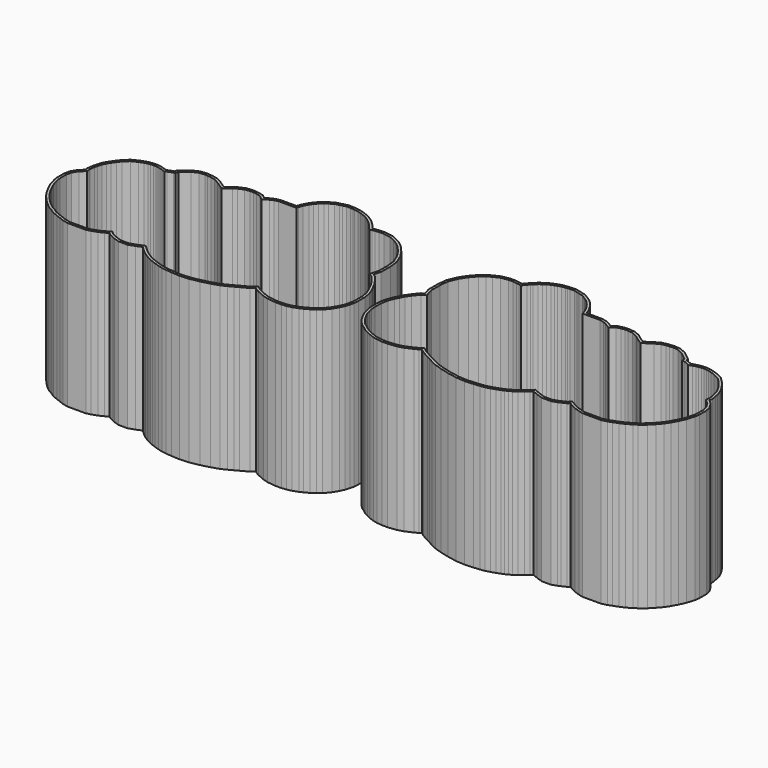
from build123d import *

# Parameters (mm, degrees)
F3_DEPTH = 63
F5_T     = -1
F6_DEPTH = 59.5


with BuildPart() as f3:
    # F2 (on Top) → F3 (new body)
    with BuildSketch(Plane.XY):
        Polygon((69.0605010803, 3.6826705883), (67.6828260233, 5.9539749338), (66.0824540443, 7.3943142983), (66.2329106813, 8.5964625363), (65.8953854477, 10.5734181663), (65.6489012115, 11.8058401083), (65.1670005925, 13.5582020605), (64.4271107308, 15.0379765623), (63.6501169809, 16.2879278911), (62.5766510595, 17.8255902563), (61.4375587699, 19.2408221008), (59.4506564546, 21.180420668), (56.9467977689, 22.4058318829), (55.2990258744, 23.0436531842), (53.7968854809, 23.4389558545), (52.8561404478, 23.5566961876), (51.8096187996, 23.6727037137), (50.6177216971, 23.5987876816), (49.633203077, 23.4390874072), (48.7148034668, 23.2536331782), (47.4375739069, 22.8887101866), (46.6260057978, 22.5887826544), (46.276989655, 22.824482255), (44.2177712486, 23.5932566966), (44.0831730028, 23.6145089746), (43.9996676928, 24.5043023693), (40.561429513, 27.2271249853), (38.0597094729, 28.3707698175), (35.6838438966, 28.6677548461), (34.344860206, 28.5087166686), (33.0077981643, 28.3832361009), (31.0679767777, 27.9667448549), (28.9886087479, 26.8500472907), (26.1127205234, 24.9323310331), (23.7915850137, 26.4260059875), (22.5144412296, 27.4374065355), (20.3085572556, 28.4458118594), (18.1390933706, 28.7169965174), (16.7126682681, 28.7169965174), (15.3178952446, 28.5003349475), (13.3258605109, 28.0152218152), (11.9263660662, 26.8834560462), (10.4085179875, 27.8008386306), (8.9245435181, 28.4792277813), (7.1902297432, 28.9031739953), (0.9375326445, 28.9031739953), (0.8916011974, 29.0530554214), (0.3177500639, 30.6316406253), (-0.6551379784, 32.4432253879), (-1.5513393392, 33.7337524028), (-2.6281023383, 34.9899786316), (-3.9544835194, 36.192008252), (-5.1557301211, 36.9711977396), (-6.9298443569, 38.0962466946), (-8.6824219763, 38.5038197492), (-9.6814525835, 38.795526054), (-11.0637086295, 39.1397361263), (-12.8564443498, 39.1397361263), (-13.9183476798, 39.0348557749), (-14.6148769812, 38.95127241), (-16.1705991872, 38.7628884176), (-17.5369718639, 38.3074308586), (-18.4534775542, 37.9721234945), (-19.5287458912, 37.5727399648), (-20.8058613534, 36.9148292566), (-21.9376113768, 36.1879083095), (-23.090324427, 35.3233706159), (-24.3209453258, 34.1647733351), (-24.8757697536, 33.5571096804), (-25.5991946494, 32.7359256672), (-26.4080916702, 31.7567359047), (-26.6869239968, 31.8148932664), (-27.9323968438, 31.9809580529), (-29.4292182463, 32.1623896058), (-31.4114159501, 32.1623896058), (-34.2744801012, 31.6852093106), (-36.7067622816, 30.5626193286), (-38.5939893418, 29.5121957471), (-40.5252545313, 27.899682525), (-42.6519555314, 25.4636437817), (-44.478675338, 22.6838553537), (-45.9723829893, 19.1192785507), (-46.3663603698, 15.504020358), (-46.3663603698, 11.0094111335), (-45.5519958228, 8.2100569243), (-46.6202990191, 7.6516238971), (-48.5962550534, 5.1416257589), (-49.8665937373, 3.3387818543), (-50.672824818, 1.7180130514), (-51.4915866557, 0.1459972546), (-52.4034504024, -2.2063133021), (-52.9091136955, -4.9714252485), (-52.9091136955, -8.1852866684), (-52.7562062752, -10.2341808853), (-52.4063591212, -11.7035601017), (-51.9044630058, -13.428813256), (-51.1098643199, -15.0871173727), (-49.8118185239, -17.286760762), (-47.8978205901, -19.5791063576), (-46.3763311707, -20.6061126552), (-44.8613569956, -21.7629994275), (-43.1199837254, -22.7033427827), (-41.7834604828, -23.3390055299), (-39.7582107601, -24.1006346446), (-37.9462882971, -24.5035987391), (-36.0079528533, -24.7148313205), (-33.7541400252, -24.7148313205), (-30.4242130258, -24.3406812764), (-28.2232351834, -23.6941381263), (-25.2712572168, -22.3917946936), (-23.9892246628, -21.6853679713), (-23.2445968222, -21.1410036713), (-21.7912996104, -22.2475732315), (-18.9271595902, -23.7882832068), (-17.4461594688, -24.5849592228), (-15.6875834408, -25.5309519499), (-13.6372963182, -26.5312071165), (-10.5926170552, -27.4977715563), (-7.2679370986, -28.3627097499), (-3.5088720566, -29.0717485595), (-0.0114314576, -29.3101217843), (3.3431636409, -29.093309759), (5.5394344238, -28.8866020108), (7.3059562011, -28.6345169724), (9.0822311808, -28.1670767899), (10.8870401828, -27.5785526963), (12.3840067255, -27.0163061496), (13.37700887, -26.6163453095), (14.515576999, -26.0540911561), (15.5441608602, -25.4841995682), (16.9345409514, -24.593275633), (18.5202831668, -23.3838126499), (19.753458586, -22.2492907425), (20.5593067832, -21.4763336184), (22.6371391489, -22.33456892), (25.1073168277, -23.2052119348), (28.6972070435, -23.2052119348), (30.7994506834, -22.5021103337), (31.73210151, -22.053057496), (33.4640465001, -21.2588558957), (34.2166801856, -20.5700043841), (35.601546001, -21.4009219383), (37.3574077685, -22.281690024), (39.4680457162, -22.996207083), (41.2115932057, -23.4502988182), (48.4223029252, -23.4502988182), (50.6090672947, -22.918382829), (52.1154152533, -22.3305378992), (53.9417225614, -21.6281129991), (55.9589893367, -20.7974746086), (57.8478911733, -19.5713428344), (59.2223790528, -18.7959929497), (61.4535788241, -16.9704640257), (63.22968567, -15.1247060727), (64.844932609, -13.2582057388), (66.0705373556, -11.4000295819), (67.2471143277, -9.2485774399), (68.4106538077, -6.7760518912), (69.3455987687, -3.6389613769), (69.5908863045, -1.9156398728), (69.5908863045, 1.4823988), align=None)
    extrude(amount=F3_DEPTH)

    # F5
    f5_openings = [f3.faces().sort_by_distance(p)[0] for p in [
        (5.894913, 2.45971, 63),
    ]]
    offset(amount=F5_T, openings=f5_openings, kind=Kind.INTERSECTION)

    # F1 (on Top) → F6 (cut)
    with BuildSketch(Plane.XY):
        Polygon((-23.7589030201, 26.576102978), (-24.2442461932, 25.6240844562), (-24.7505796552, 25.9683916906), (-26.3273519333, 26.6322949447), (-27.5289118996, 26.8829099231), (-28.5636582293, 27.0208775462), (-29.7311413718, 27.1623896058), (-30.9976007865, 27.1623896058), (-32.7894763894, 26.863741834), (-34.4400465414, 26.1019414426), (-35.7508573038, 25.3723490344), (-37.0179915376, 24.3143531065), (-38.6608860364, 22.4324925863), (-40.0460266042, 20.3246719411), (-41.0804289065, 17.8561792286), (-41.3663603698, 15.2323837611), (-41.3663603698, 11.7219213441), (-40.4341370797, 8.5174311673), (-39.6647828823, 7.1633647373), (-38.6575244171, 5.408438174), (-39.2026734707, 5.2991778714), (-41.7389136401, 4.5613562446), (-43.3544110434, 3.7168889545), (-44.5854614986, 2.1531222021), (-45.5597075525, 0.7704881202), (-46.2167994333, -0.5504656938), (-46.9294362318, -1.9187223137), (-47.5702393572, -3.5717850242), (-47.9091136955, -5.424847119), (-47.9091136955, -7.9989726259), (-47.7997641108, -9.4642104225), (-47.5709106, -10.4254090164), (-47.2180915667, -11.6382140796), (-46.6940448844, -12.7318841121), (-45.7127052521, -14.3948433401), (-44.5135793044, -15.8310053318), (-43.4578768902, -16.5436051133), (-42.1394547666, -17.5503979288), (-40.8568634275, -18.2429985698), (-39.8262294735, -18.7331775578), (-38.3284022685, -19.2964605916), (-37.1302421745, -19.5629264627), (-35.7363162565, -19.7148313205), (-34.0341585917, -19.7148313205), (-31.4154347714, -19.4205919474), (-29.9441817619, -18.988407426), (-27.4911786956, -17.9062000146), (-26.6821085673, -17.4603854703), (-25.6541709012, -16.708905956), (-24.8518540347, -16.0390025747), (-24.1278540821, -15.4960032425), (-23.3387250184, -14.6461724325), (-23.0041788543, -14.8657410276), (-22.5821964846, -15.1748001319), (-21.6527083444, -16.024618459), (-20.5107791469, -16.9381611055), (-19.0757068372, -18.0308538608), (-16.5584713949, -19.3849530769), (-15.0774712735, -20.1816290928), (-13.4061822444, -21.0806674291), (-11.7747129414, -21.8765977071), (-9.2057600976, -22.6921379502), (-6.1738480443, -23.4809105746), (-2.873269463, -24.1034691848), (-0.0026380287, -24.2991213061), (2.9475780252, -24.1084448462), (4.9516630236, -23.9198251639), (6.3132365773, -23.7255267828), (7.6697647968, -23.3685461318), (9.2321655754, -22.85906812), (10.5707033149, -22.356325941), (11.3330962238, -22.0492497579), (12.1957357776, -21.6232562142), (12.981151285, -21.1880931638), (14.0648357577, -20.4936928044), (15.3046952021, -19.548038405), (16.3298823485, -18.6048657967), (17.2851942912, -17.6885453601), (18.4464275173, -16.5726025658), (19.3108553252, -15.4269766332), (20.1653762905, -14.328306593), (20.9127532539, -15.1448847219), (21.9303836407, -16.1372863981), (23.1243135455, -17.1260681519), (24.4238311927, -17.6628255623), (25.9626831537, -18.2052119348), (27.8832339081, -18.2052119348), (28.9144887249, -17.8603057122), (29.605314167, -17.5276869911), (30.666896355, -17.0408873079), (32.1588563228, -15.6753639479), (32.7912283193, -14.9544594721), (33.2872671123, -14.3757475469), (33.8407822859, -13.8691401875), (34.2607417534, -13.5552410991), (34.8237970161, -14.4936676297), (35.8467558863, -15.5166264999), (36.7334515172, -16.249115366), (38.0121365904, -17.0163246232), (39.2892198985, -17.656929847), (40.9016075556, -18.2027735755), (41.8520146695, -18.4502988182), (47.8229328234, -18.4502988182), (49.1026313559, -18.1390206027), (50.3090991705, -17.6682024336), (52.0921484036, -16.9824152313), (53.6259986563, -16.3508304945), (55.2559089116, -15.2928164071), (56.390056731, -14.6530425726), (58.0570645904, -13.2891256777), (59.5352625518, -11.7529592869), (60.8506563155, -10.2329546115), (61.7828626198, -8.8196086427), (62.7875467568, -6.9824744051), (63.7263774207, -4.9874558927), (64.4478163432, -2.5667581035), (64.5908863045, -1.5615886391), (64.5908863045, 0.888271676), (64.3820245689, 1.7547222549), (63.7900745553, 2.7306408007), (62.8930744279, 3.5379434844), (61.4781598367, 3.7208179903), (60.1520471235, 3.7208179903), (60.9751399807, 6.8485505387), (61.1798000357, 8.4837839815), (60.978607745, 9.6622091547), (60.7808088731, 10.6512041247), (60.4758384982, 11.7601848158), (60.0584874988, 12.5948838693), (59.4740436081, 13.535079872), (58.5745723965, 14.823507388), (57.7304173259, 15.8723031252), (56.5320833323, 17.0421074378), (54.9416867433, 17.820461994), (53.7555003769, 18.2796122771), (52.8459920299, 18.518958133), (52.27020294, 18.5910218664), (51.6880201895, 18.6555571589), (51.1741184037, 18.6236873097), (50.5286721981, 18.5189884914), (49.8982962655, 18.3916954467), (48.9932304831, 18.1331050388), (47.3849873957, 17.538753961), (46.1277450284, 16.9364921675), (45.8268588917, 16.7528660341), (45.5654865376, 17.0814504277), (44.9798004397, 17.6671318337), (43.971324032, 18.3481819554), (42.9406627616, 18.7329619477), (41.9949013379, 18.8822921602), (40.6884968553, 18.9727363649), (39.4873954936, 19.0731982068), (39.2211132354, 21.9105769859), (37.9319600279, 22.931488082), (36.6784656141, 23.5045147939), (35.6683946096, 23.6307744481), (34.8733995839, 23.5363486826), (33.7688390905, 23.4326879149), (32.8098397533, 23.2267850252), (31.5642455213, 22.5578548382), (26.8373227378, 19.4058211142), (26.3643721194, 19.2381737155), (26.1695594189, 19.2381737155), (25.6714232913, 19.3004411155), (25.5107751599, 19.3738803502), (20.8796666746, 22.3540470516), (19.8849717446, 23.1417696322), (18.9273133968, 23.5795568358), (17.8278027243, 23.7169965174), (17.0986989923, 23.7169965174), (16.294921119, 23.5921390869), (15.5981843287, 23.4224652549), (14.8178255787, 22.7913921383), (14.3674443505, 22.1389448999), (14.0896660081, 21.531305512), (13.9163308128, 20.8277695193), (13.7108339302, 20.033806768), (13.5683044383, 18.8935778647), (12.3148988595, 18.8935778647), (12.1412051113, 18.9729808172), (11.9512588975, 19.1312690602), (11.6033061588, 19.4839067514), (11.2607348008, 19.9075162346), (10.9182171587, 20.4211701444), (10.5971640178, 21.0189932778), (9.6834489868, 22.1488552555), (9.0567611208, 22.7755431214), (8.0682564663, 23.3729922123), (7.2768306129, 23.7347873264), (6.587980684, 23.9031739953), (-1.6993388999, 23.9031739953), (-2.6088466557, 23.9031739953), (-2.8449990076, 23.94194555), (-3.0905413107, 24.1355462182), (-3.0905413107, 24.7946471054), (-3.2750359399, 25.54415705), (-3.5202639309, 26.3849397516), (-3.8513681221, 27.4653840118), (-4.2580400292, 28.5840822558), (-4.9249420805, 29.8258999592), (-5.5131284693, 30.6728864264), (-6.2192568924, 31.4967047102), (-7.0134990969, 32.2164847171), (-7.8551380548, 32.7624144433), (-8.8899964072, 33.4186666081), (-9.9503947918, 33.6652689862), (-10.9867915733, 33.9678858161), (-11.6768966843, 34.1397361263), (-12.6101276262, 34.1397361263), (-13.3747049395, 34.0642215903), (-14.0164820709, 33.9872084738), (-15.0683751384, 33.8598336669), (-15.8871013775, 33.5869249205), (-16.7240496304, 33.280723971), (-17.5061075306, 32.9902466698), (-18.3042350808, 32.5790883389), (-19.0827902047, 32.0790238226), (-19.866566702, 31.4911894737), (-20.7559487772, 30.6538595901), (-21.1533668725, 30.2185930083), (-21.7949365397, 29.4903256275), (-22.5238282469, 28.6079842673), (-23.0710058069, 27.6595398639), align=None)
    extrude(amount=F6_DEPTH, mode=Mode.SUBTRACT)


with BuildPart() as f7_1:
    # F7: instance of F3
    add(f3.part.mirror(Plane.YZ.offset(-55.6)))


with BuildPart() as f8_1:
    # F8: copy of F3
    add(f3.part)


solid = Compound([f3.part, f7_1.part, f8_1.part])
